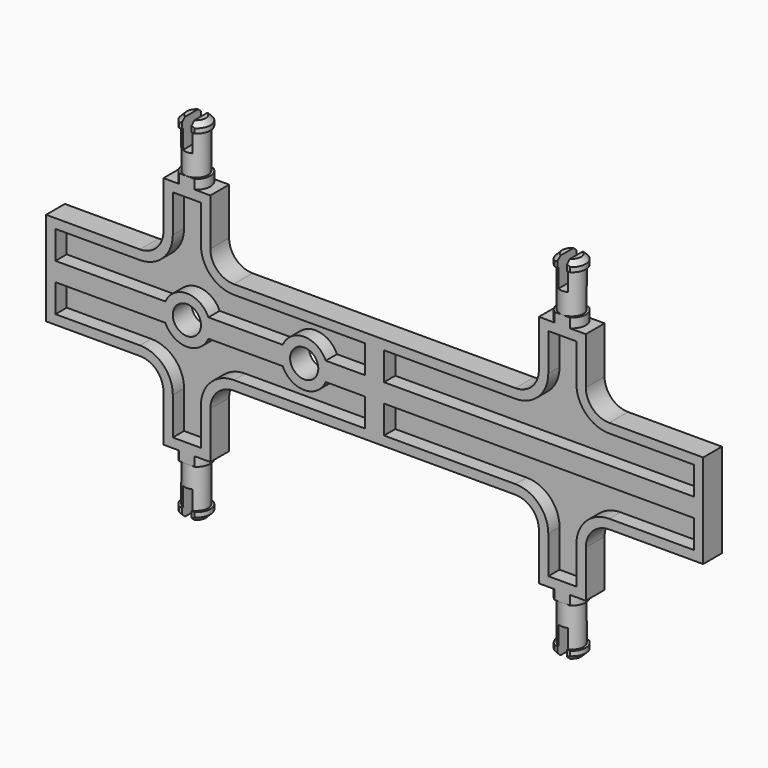
from build123d import *

# Parameters (mm, degrees)
F1_DEPTH  = 2.5
F2_T      = -2
F5_SIZE   = 1
F6_W      = 75.6324666962
F6_H      = 5
F7_DEPTH  = 37.501
F8_W      = 2
F8_H      = 10.0220041212
F9_DEPTH  = 6
F12_R     = 5
F13_DEPTH = 5
F15_D     = 6


with BuildPart() as f1:
    # F0 (on Front) → F1 (new body, symmetric)
    with BuildSketch(Plane.XZ):
        with BuildLine():
            Line((0, 10), (0, 0))
            Line((0, 0), (70, 0))
            Line((70, 0), (70, 10))
            Line((70, 10), (50, 10))
            ThreePointArc((50, 10), (46.4644660941, 11.4644660941), (45, 15))
            Line((45, 15), (45, 25))
            Line((45, 25), (35, 25))
            Line((35, 25), (35, 15))
            ThreePointArc((35, 15), (33.5355339059, 11.4644660941), (30, 10))
            Line((30, 10), (0, 10))
        make_face()
    extrude(amount=F1_DEPTH, both=True)

    # F2
    f2_openings = [f1.faces().sort_by_distance(p)[0] for p in [
        (35.933685, -2.5, 7.254637),
    ]]
    offset(amount=F2_T, openings=f2_openings)

    # F3 (on Front) → F4 (revolve)
    with BuildSketch(Plane.XZ):
        Polygon((37, 27), (37, 25), (40, 25), (40, 37.5), (37, 37.5), (37, 35.5), (37.5, 35.5), (37.5, 27), align=None)
    revolve(axis=Axis((40, 0, 31.25), (0, 0, -1)))

    # F5
    f5_edges = [f1.edges().sort_by_distance(p)[0] for p in [
        (43, 0, 37.5),
    ]]
    chamfer(f5_edges, length=F5_SIZE)

    # F6 (on face) → F7 (intersect, through all)
    with BuildSketch(Plane.XY.offset(37.5)):
        with Locations((35.2976246504, 0)):
            Rectangle(F6_W, F6_H)
    extrude(amount=-F7_DEPTH, mode=Mode.INTERSECT)

    # F8 (on face) → F9 (cut)
    with BuildSketch(Plane.XY.offset(37.5)):
        with Locations((40, -0.5166346673)):
            Rectangle(F8_W, F8_H)
    extrude(amount=-F9_DEPTH, mode=Mode.SUBTRACT)

    # F10: F1 across plane


with BuildPart() as f1_1:
    add(f1.part)
    add(f1.part.mirror(Plane.XY))

    # F11: F1 across plane


with BuildPart() as f1_2:
    add(f1_1.part)
    add(f1_1.part.mirror(Plane.YZ))

    # F12 (on face) → F13 (join, through all)
    with BuildSketch(Plane.XZ.offset(2.5)):
        with Locations((-40, 0)):
            Circle(F12_R)
        with Locations((-15, 0)):
            Circle(F12_R)
    extrude(amount=-F13_DEPTH)

    # F15 (through all)
    with Locations(Plane.XZ.offset(2.5)):
        with Locations((-40, 0), (-15, 0)):
            Hole(F15_D / 2)


solid = f1_2.part
